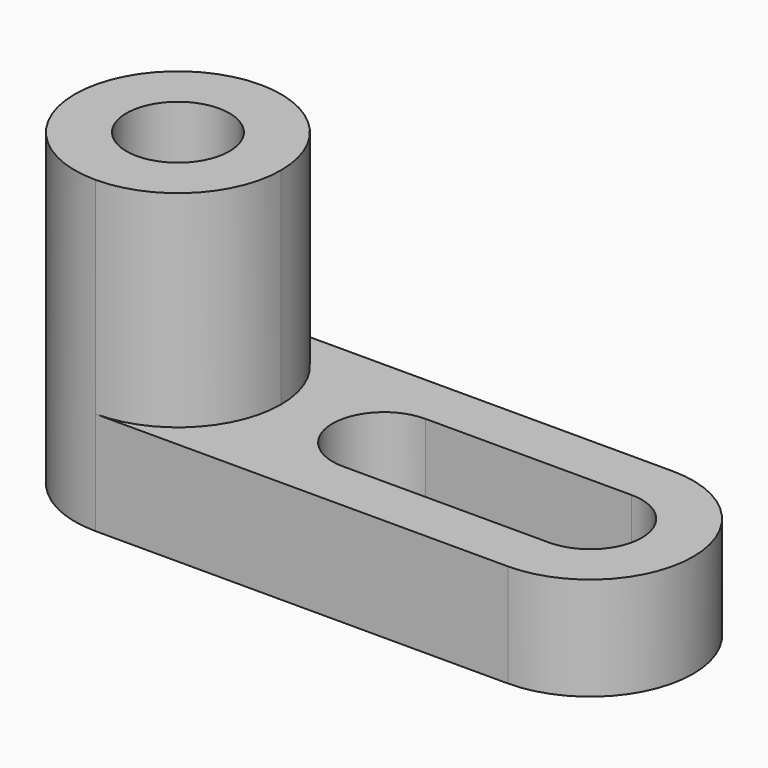
from build123d import *

# Parameters (mm, degrees)
F1_DEPTH  = 25.4
F2_R      = 6.35
F3_DEPTH  = 38.101
F5_DEPTH  = 25.4
F8_DEPTH  = 12.701
F9_DEPTH  = 12.701
F11_DEPTH = 25.401
F12_DEPTH = 38.102


with BuildPart() as f1:
    # F0 (on Front) → F1 (new body)
    with BuildSketch(Plane.XZ):
        Polygon((-74.184913183, 46.5019775372), (-74.184913183, 42.781777394), (-74.184913183, 8.4019775372), (2.015086817, 8.4019775372), (2.015086817, 21.1019775372), (-48.784913183, 21.1019775372), (-48.784913183, 46.5019775372), align=None)
    extrude(amount=F1_DEPTH)

    # F2 (on face) → F3 (cut, through all)
    with BuildSketch(Plane.XY.offset(46.5019775372)):
        with BuildLine():
            ThreePointArc((-74.184913183, -12.7), (-70.4651693041, -3.7197438789), (-61.484913183, 0))
            Line((-61.484913183, 0), (-74.184913183, 0))
            Line((-74.184913183, 0), (-74.184913183, -12.7))
        make_face()
        with BuildLine():
            Line((-74.184913183, -25.4), (-61.484913183, -25.4))
            ThreePointArc((-61.484913183, -25.4), (-70.4651693041, -21.6802561211), (-74.184913183, -12.7))
            Line((-74.184913183, -12.7), (-74.184913183, -25.4))
        make_face()
        with Locations((-61.484913183, -12.7)):
            Circle(F2_R)
    extrude(amount=-F3_DEPTH, mode=Mode.SUBTRACT)

    # F4 (on face) → F5 (cut)
    with BuildSketch(Plane.XY.offset(46.5019775372)):
        with BuildLine():
            ThreePointArc((-61.484913183, 0), (-52.5046570619, -3.7197438789), (-48.784913183, -12.7))
            Line((-48.784913183, -12.7), (-48.784913183, 0))
            Line((-48.784913183, 0), (-61.484913183, 0))
        make_face()
        with BuildLine():
            Line((-48.784913183, -25.4), (-48.784913183, -12.7))
            ThreePointArc((-48.784913183, -12.7), (-52.5046570619, -21.6802561211), (-61.484913183, -25.4))
            Line((-61.484913183, -25.4), (-48.784913183, -25.4))
        make_face()
    extrude(amount=-F5_DEPTH, mode=Mode.SUBTRACT)

    # F6 (on face) → F8 (cut, through all)
    with BuildSketch(Plane.XY.offset(21.1019775372)):
        with BuildLine():
            ThreePointArc((-36.084913183, -19.05), (-31.5947851225, -17.1901280605), (-29.734913183, -12.7))
            ThreePointArc((-29.734913183, -12.7), (-31.5947851225, -8.2098719395), (-36.084913183, -6.35))
            ThreePointArc((-36.084913183, -6.35), (-42.434913183, -12.7), (-36.084913183, -19.05))
        make_face()
        with BuildLine():
            ThreePointArc((-36.084913183, -6.35), (-31.5947851225, -8.2098719395), (-29.734913183, -12.7))
            ThreePointArc((-29.734913183, -12.7), (-31.5947851225, -17.1901280605), (-36.084913183, -19.05))
            Line((-36.084913183, -19.05), (-10.684913183, -19.05))
            ThreePointArc((-10.684913183, -19.05), (-17.034913183, -12.7), (-10.684913183, -6.35))
            Line((-10.684913183, -6.35), (-36.084913183, -6.35))
        make_face()
        with BuildLine():
            ThreePointArc((-4.334913183, -12.7), (-6.1947851225, -8.2098719395), (-10.684913183, -6.35))
            ThreePointArc((-10.684913183, -6.35), (-17.034913183, -12.7), (-10.684913183, -19.05))
            ThreePointArc((-10.684913183, -19.05), (-6.1947851225, -17.1901280605), (-4.334913183, -12.7))
        make_face()
    extrude(amount=-F8_DEPTH, mode=Mode.SUBTRACT)

    # F7 (on face) → F9 (cut, through all)
    with BuildSketch(Plane.XY.offset(21.1019775372)):
        with BuildLine():
            ThreePointArc((-10.684913183, -19.05), (-6.1947851225, -17.1901280605), (-4.334913183, -12.7))
            ThreePointArc((-4.334913183, -12.7), (-6.1947851225, -8.2098719395), (-10.684913183, -6.35))
            ThreePointArc((-10.684913183, -6.35), (-17.034913183, -12.7), (-10.684913183, -19.05))
        make_face()
    extrude(amount=-F9_DEPTH, mode=Mode.SUBTRACT)

    # F10 (on face) → F11 (join, through all)
    with BuildSketch(Plane.XY.offset(21.1019775372)):
        with BuildLine():
            ThreePointArc((-10.684913183, 0), (1.9896017817, -12.7), (-10.684913183, -25.4))
            Line((-10.684913183, -25.4), (2.015086817, -25.4))
            Line((2.015086817, -25.4), (2.015086817, 0))
            Line((2.015086817, 0), (-10.684913183, 0))
        make_face()
    extrude(amount=F11_DEPTH)

    # F12 (cut, through all): a face of the model
    f12_faces = [f1.faces().sort_by_distance(p)[0] for p in [
        (-4.334913183, -25.1160193669, 46.5029775372),
    ]]
    extrude(f12_faces, amount=-F12_DEPTH, mode=Mode.SUBTRACT)


solid = f1.part
